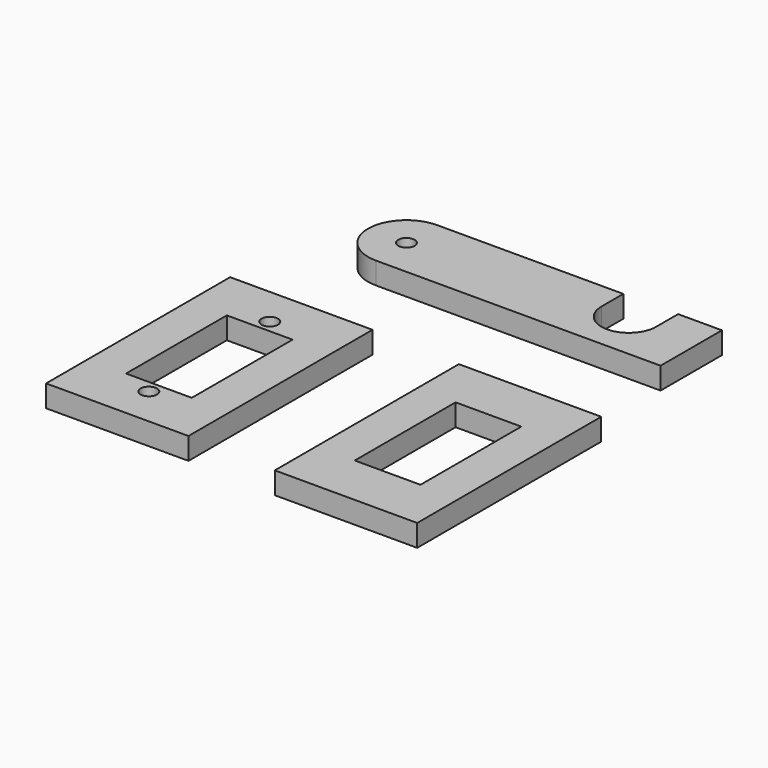
from build123d import *

# Parameters (mm, degrees)
SKETCH001_W   = 26
SKETCH001_H   = 42
SKETCH001_W_2 = 12
SKETCH001_H_2 = 23
PAD001_DEPTH  = 4
SKETCH003_W   = 26
SKETCH003_H   = 42
SKETCH003_R   = 1.5
SKETCH003_W_2 = 12
SKETCH003_H_2 = 23
PAD003_DEPTH  = 4
SKETCH_R      = 1.5
PAD_DEPTH     = 4


with BuildPart() as joint_down001:
    # Sketch001 → Pad001 (new body)
    with BuildSketch(Plane.XY):
        with Locations((42.239007, -45.589376)):
            Rectangle(SKETCH001_W, SKETCH001_H)
        with Locations((42.239007, -45.589376)):
            Rectangle(SKETCH001_W_2, SKETCH001_H_2, mode=Mode.SUBTRACT)
    extrude(amount=PAD001_DEPTH)


with BuildPart() as joint_up001:
    # Sketch003 → Pad003 (new body)
    with BuildSketch(Plane.XY):
        with Locations((0, -44.994375)):
            Rectangle(SKETCH003_W, SKETCH003_H)
        with Locations((0, -31.194375)):
            Circle(SKETCH003_R, mode=Mode.SUBTRACT)
        with Locations((0, -58.794375)):
            Circle(SKETCH003_R, mode=Mode.SUBTRACT)
        with Locations((0, -44.994375)):
            Rectangle(SKETCH003_W_2, SKETCH003_H_2, mode=Mode.SUBTRACT)
    extrude(amount=PAD003_DEPTH)


with BuildPart() as obj1:
    # Sketch → Pad (new body)
    with BuildSketch(Plane.XY):
        with BuildLine():
            ThreePointArc((0, 7), (-7, 0), (0, -7))
            Line((0, -7), (52, -7))
            Line((52, -7), (52, 6.999977))
            Line((52, 6.999977), (44, 6.999977))
            Line((44, 6.999977), (44, 1.999977))
            ThreePointArc((34, 2), (38.999988, -3.000023), (44, 1.999977))
            Line((34, 2), (34, 7))
            Line((0, 7), (34, 7))
        make_face()
        Circle(SKETCH_R, mode=Mode.SUBTRACT)
    extrude(amount=PAD_DEPTH)


solid = Compound([joint_down001.part, joint_up001.part, obj1.part])
